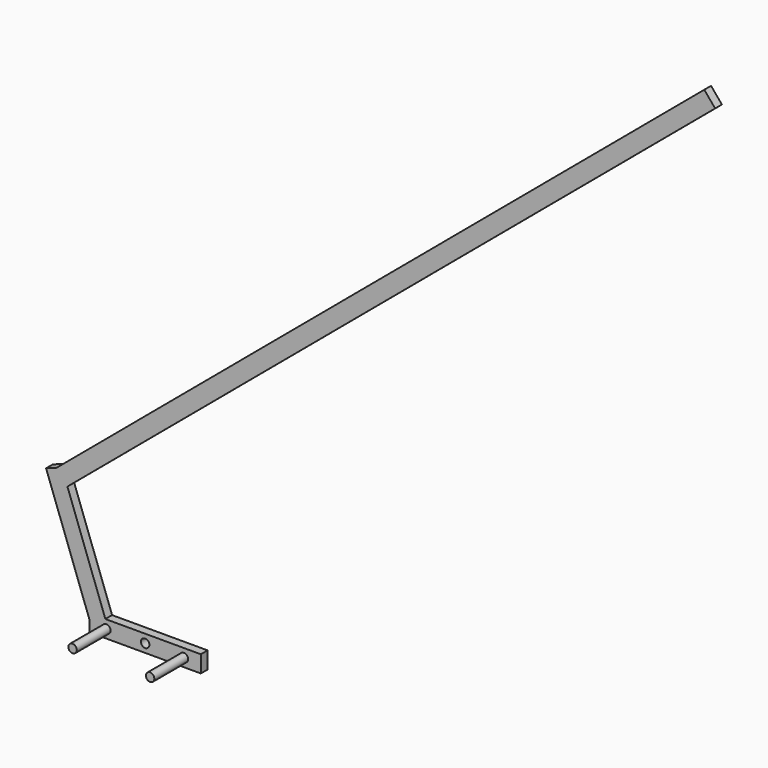
from build123d import *

# Parameters (mm, degrees)
F0_W     = 131.7172
F0_H     = 20
F0_R     = 5
F1_DEPTH = 10
F2_R     = 5
F3_DEPTH = 50
F5_DEPTH = 10
F7_DEPTH = 10


with BuildPart() as f1:
    # F0 (on Front) → F1 (new body)
    with BuildSketch(Plane.XZ):
        Rectangle(F0_W, F0_H)
        Circle(F0_R, mode=Mode.SUBTRACT)
    extrude(amount=F1_DEPTH)

    # F2 (on face) → F3 (join)
    with BuildSketch(Plane.XZ.offset(10)):
        with Locations((-45.8586, 0)):
            Circle(F2_R)
        with Locations((45.8586, 0)):
            Circle(F2_R)
    extrude(amount=F3_DEPTH)

    # F4 (on Front) → F5 (join)
    with BuildSketch(Plane.XZ):
        Polygon((-117.161621, 144.11349), (-65.8586, 3.159597), (-47.064747, 10), (-98.367769, 150.953893), align=None)
    extrude(amount=F5_DEPTH)

    # F6 (on Front) → F7 (join)
    with BuildSketch(Plane.XZ):
        Polygon((661.248798, 791.401947), (-104.795645, 148.614338), (-91.939893, 133.293449), (674.104551, 776.081058), align=None)
    extrude(amount=F7_DEPTH)


solid = f1.part
